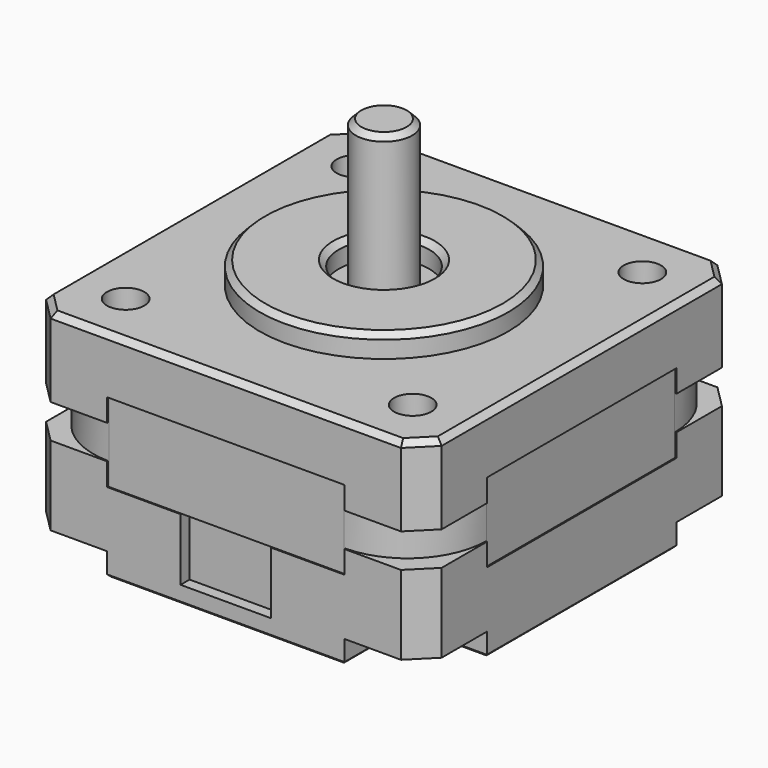
from build123d import *

# Parameters (mm, degrees)
F0_W      = 35
F0_H      = 35
F1_DEPTH  = 5
F2_R      = 11
F2_R_2    = 4
F3_DEPTH  = 2
F4_SIZE   = 2
F5_R      = 2.5
F6_DEPTH  = 13
F8_D      = 3.3
F8_DEPTH  = 3
F8_TIP    = 0.9914200214
F9_SIZE   = 0.5
F11_DEPTH = 7
F13_DEPTH = 2
F14_W     = 35
F14_H     = 35
F15_DEPTH = 7
F16_SIZE  = 2
F18_DEPTH = 2
F19_W     = 8
F19_H     = 5.5
F20_DEPTH = 1
F22_DEPTH = 2
F23_SIZE  = 0.2


with BuildPart() as f1:
    # F0 (on Top) → F1 (new body)
    with BuildSketch(Plane.XY):
        Rectangle(F0_W, F0_H)
    extrude(amount=F1_DEPTH)

    # F2 (on face) → F3 (join)
    with BuildSketch(Plane.XY.offset(5)):
        Circle(F2_R)
        Circle(F2_R_2, mode=Mode.SUBTRACT)
    extrude(amount=F3_DEPTH)

    # F4
    f4_edges = [f1.edges().sort_by_distance(p)[0] for p in [
        (-17.5, 17.5, 2.5),
        (-17.5, -17.5, 2.5),
        (17.5, -17.5, 2.5),
        (17.5, 17.5, 2.5),
    ]]
    chamfer(f4_edges, length=F4_SIZE)

    # F5 (on face) → F6 (join)
    with BuildSketch(Plane.XY.offset(5)):
        Circle(F5_R)
    extrude(amount=F6_DEPTH)

    # F8
    with Locations(Plane.XY.offset(5)):
        with Locations((-12.7, -12.7), (-12.7, 12.7), (12.7, 12.7), (12.7, -12.7)):
            Hole(F8_D / 2, depth=F8_DEPTH)
            with Locations((0, 0, -(F8_DEPTH + F8_TIP / 2))):  # 118° drill point
                Cone(0, F8_D / 2, F8_TIP, mode=Mode.SUBTRACT)

    # F9
    f9_edges = [f1.edges().sort_by_distance(p)[0] for p in [
        (0, -17.5, 5),
        (-17.5, 0, 5),
        (0, 17.5, 5),
        (17.5, 0, 5),
        (16.5, -16.5, 5),
        (16.5, 16.5, 5),
        (-16.5, 16.5, 5),
        (-16.5, -16.5, 5),
        (-11, 0, 7),
        (-4, 0, 7),
        (-2.5, 0, 18),
    ]]
    chamfer(f9_edges, length=F9_SIZE)

    # F10 (on face) → F11 (join)
    with BuildSketch(Plane(origin=(0, 0, 0), x_dir=(1, 0, 0), z_dir=(0, 0, -1))):
        with BuildLine():
            Line((10.4, 17.4), (-10.4, 17.4))
            ThreePointArc((-10.4, 17.4), (-15.3497474683, 15.3497474683), (-17.4, 10.4))
            Line((-17.4, 10.4), (-17.4, -10.4))
            ThreePointArc((-17.4, -10.4), (-15.3497474683, -15.3497474683), (-10.4, -17.4))
            Line((-10.4, -17.4), (10.4, -17.4))
            ThreePointArc((10.4, -17.4), (15.3497474683, -15.3497474683), (17.4, -10.4))
            Line((17.4, -10.4), (17.4, 10.4))
            ThreePointArc((17.4, 10.4), (15.3497474683, 15.3497474683), (10.4, 17.4))
        make_face()
    extrude(amount=F11_DEPTH)

    # F12 (on face) → F13 (join)
    with BuildSketch(Plane(origin=(0, 0, 0), x_dir=(1, 0, 0), z_dir=(0, 0, -1))):
        with BuildLine():
            Line((-10.5, 17.5), (-15.5, 17.5))
            Line((-15.5, 17.5), (-17.5, 15.5))
            Line((-17.5, 15.5), (-17.5, 10.5))
            Line((-17.5, 10.5), (-17.3992856778, 10.5))
            ThreePointArc((-17.3992856778, 10.5), (-15.3497474683, 15.3497474683), (-10.5, 17.3992856778))
            Line((-10.5, 17.3992856778), (-10.5, 17.5))
        make_face()
        with BuildLine():
            Line((15.5, 17.5), (10.5, 17.5))
            Line((10.5, 17.5), (10.5, 17.3992856778))
            ThreePointArc((10.5, 17.3992856778), (15.3497474683, 15.3497474683), (17.3992856778, 10.5))
            Line((17.3992856778, 10.5), (17.5, 10.5))
            Line((17.5, 10.5), (17.5, 15.5))
            Line((17.5, 15.5), (15.5, 17.5))
        make_face()
        with BuildLine():
            Line((17.5, -15.5), (17.5, -10.5))
            Line((17.5, -10.5), (17.3992856778, -10.5))
            ThreePointArc((17.3992856778, -10.5), (15.3497474683, -15.3497474683), (10.5, -17.3992856778))
            Line((10.5, -17.3992856778), (10.5, -17.5))
            Line((10.5, -17.5), (15.5, -17.5))
            Line((15.5, -17.5), (17.5, -15.5))
        make_face()
        with BuildLine():
            Line((-17.3992856778, -10.5), (-17.5, -10.5))
            Line((-17.5, -10.5), (-17.5, -15.5))
            Line((-17.5, -15.5), (-15.5, -17.5))
            Line((-15.5, -17.5), (-10.5, -17.5))
            Line((-10.5, -17.5), (-10.5, -17.3992856778))
            ThreePointArc((-10.5, -17.3992856778), (-15.3497474683, -15.3497474683), (-17.3992856778, -10.5))
        make_face()
    extrude(amount=F13_DEPTH)

    # F14 (on face) → F15 (join)
    with BuildSketch(Plane(origin=(0, 0, -7), x_dir=(1, 0, 0), z_dir=(0, 0, -1))):
        Rectangle(F14_W, F14_H)
        with BuildLine():
            Line((-10.4, 17.4), (10.4, 17.4))
            ThreePointArc((10.4, 17.4), (15.3497474683, 15.3497474683), (17.4, 10.4))
            Line((17.4, 10.4), (17.4, -10.4))
            ThreePointArc((17.4, -10.4), (15.3497474683, -15.3497474683), (10.4, -17.4))
            Line((10.4, -17.4), (-10.4, -17.4))
            ThreePointArc((-10.4, -17.4), (-15.3497474683, -15.3497474683), (-17.4, -10.4))
            Line((-17.4, -10.4), (-17.4, 10.4))
            ThreePointArc((-17.4, 10.4), (-15.3497474683, 15.3497474683), (-10.4, 17.4))
        make_face(mode=Mode.SUBTRACT)
        with BuildLine():
            ThreePointArc((17.4, 10.4), (15.3497474683, 15.3497474683), (10.4, 17.4))
            Line((10.4, 17.4), (-10.4, 17.4))
            ThreePointArc((-10.4, 17.4), (-15.3497474683, 15.3497474683), (-17.4, 10.4))
            Line((-17.4, 10.4), (-17.4, -10.4))
            ThreePointArc((-17.4, -10.4), (-15.3497474683, -15.3497474683), (-10.4, -17.4))
            Line((-10.4, -17.4), (10.4, -17.4))
            ThreePointArc((10.4, -17.4), (15.3497474683, -15.3497474683), (17.4, -10.4))
            Line((17.4, -10.4), (17.4, 10.4))
        make_face()
    extrude(amount=F15_DEPTH)

    # F16
    f16_edges = [f1.edges().sort_by_distance(p)[0] for p in [
        (-17.5, -17.5, -10.5),
        (17.5, -17.5, -10.5),
        (17.5, 17.5, -10.5),
        (-17.5, 17.5, -10.5),
    ]]
    chamfer(f16_edges, length=F16_SIZE)

    # F17 (on face) → F18 (join)
    with BuildSketch(Plane.XY.offset(-7)):
        with BuildLine():
            Line((15.5, 17.5), (10.5, 17.5))
            Line((10.5, 17.5), (10.5, 17.3992856778))
            ThreePointArc((10.5, 17.3992856778), (15.3497474683, 15.3497474683), (17.3992856778, 10.5))
            Line((17.3992856778, 10.5), (17.5, 10.5))
            Line((17.5, 10.5), (17.5, 15.5))
            Line((17.5, 15.5), (15.5, 17.5))
        make_face()
        with BuildLine():
            Line((-10.5, 17.5), (-15.5, 17.5))
            Line((-15.5, 17.5), (-17.5, 15.5))
            Line((-17.5, 15.5), (-17.5, 10.5))
            Line((-17.5, 10.5), (-17.3992856778, 10.5))
            ThreePointArc((-17.3992856778, 10.5), (-15.3497474683, 15.3497474683), (-10.5, 17.3992856778))
            Line((-10.5, 17.3992856778), (-10.5, 17.5))
        make_face()
        with BuildLine():
            Line((-17.3992856778, -10.5), (-17.5, -10.5))
            Line((-17.5, -10.5), (-17.5, -15.5))
            Line((-17.5, -15.5), (-15.5, -17.5))
            Line((-15.5, -17.5), (-10.5, -17.5))
            Line((-10.5, -17.5), (-10.5, -17.3992856778))
            ThreePointArc((-10.5, -17.3992856778), (-15.3497474683, -15.3497474683), (-17.3992856778, -10.5))
        make_face()
        with BuildLine():
            Line((17.5, -15.5), (17.5, -10.5))
            Line((17.5, -10.5), (17.3992856778, -10.5))
            ThreePointArc((17.3992856778, -10.5), (15.3497474683, -15.3497474683), (10.5, -17.3992856778))
            Line((10.5, -17.3992856778), (10.5, -17.5))
            Line((10.5, -17.5), (15.5, -17.5))
            Line((15.5, -17.5), (17.5, -15.5))
        make_face()
    extrude(amount=F18_DEPTH)

    # F19 (on face) → F20 (cut)
    with BuildSketch(Plane.XZ.offset(17.5)):
        with Locations((0, -9.75)):
            Rectangle(F19_W, F19_H)
    extrude(amount=-F20_DEPTH, mode=Mode.SUBTRACT)

    # F21 (on face) → F22 (cut)
    with BuildSketch(Plane(origin=(0, 0, -14), x_dir=(1, 0, 0), z_dir=(0, 0, -1))):
        with BuildLine():
            Line((-17.5, 15.5), (-17.5, 10.5))
            Line((-17.5, 10.5), (-12.5, 10.5))
            ThreePointArc((-12.5, 10.5), (-11.0857864376, 11.0857864376), (-10.5, 12.5))
            Line((-10.5, 12.5), (-10.5, 17.5))
            Line((-10.5, 17.5), (-15.5, 17.5))
            Line((-15.5, 17.5), (-17.5, 15.5))
        make_face()
        with BuildLine():
            Line((15.5, 17.5), (10.5, 17.5))
            Line((10.5, 17.5), (10.5, 12.5))
            ThreePointArc((10.5, 12.5), (11.0857864376, 11.0857864376), (12.5, 10.5))
            Line((12.5, 10.5), (17.5, 10.5))
            Line((17.5, 10.5), (17.5, 15.5))
            Line((17.5, 15.5), (15.5, 17.5))
        make_face()
        with BuildLine():
            Line((10.5, -12.5), (10.5, -17.5))
            Line((10.5, -17.5), (15.5, -17.5))
            Line((15.5, -17.5), (17.5, -15.5))
            Line((17.5, -15.5), (17.5, -10.5))
            Line((17.5, -10.5), (12.5, -10.5))
            ThreePointArc((12.5, -10.5), (11.0857864376, -11.0857864376), (10.5, -12.5))
        make_face()
        with BuildLine():
            Line((-12.5, -10.5), (-17.5, -10.5))
            Line((-17.5, -10.5), (-17.5, -15.5))
            Line((-17.5, -15.5), (-15.5, -17.5))
            Line((-15.5, -17.5), (-10.5, -17.5))
            Line((-10.5, -17.5), (-10.5, -12.5))
            ThreePointArc((-10.5, -12.5), (-11.0857864376, -11.0857864376), (-12.5, -10.5))
        make_face()
    extrude(amount=-F22_DEPTH, mode=Mode.SUBTRACT)

    # F23
    f23_edges = [f1.edges().sort_by_distance(p)[0] for p in [
        (17.5, 0, -14),
        (0, -17.5, -14),
        (-17.5, 0, -14),
        (0, 17.5, -14),
        (10.5, 15, -14),
        (11.085786, 11.085786, -14),
        (15, 10.5, -14),
        (15, -10.5, -14),
        (11.085786, -11.085786, -14),
        (10.5, -15, -14),
        (-10.5, -15, -14),
        (-11.085786, -11.085786, -14),
        (-15, -10.5, -14),
        (-15, 10.5, -14),
        (-11.085786, 11.085786, -14),
        (-10.5, 15, -14),
    ]]
    chamfer(f23_edges, length=F23_SIZE)


solid = f1.part
